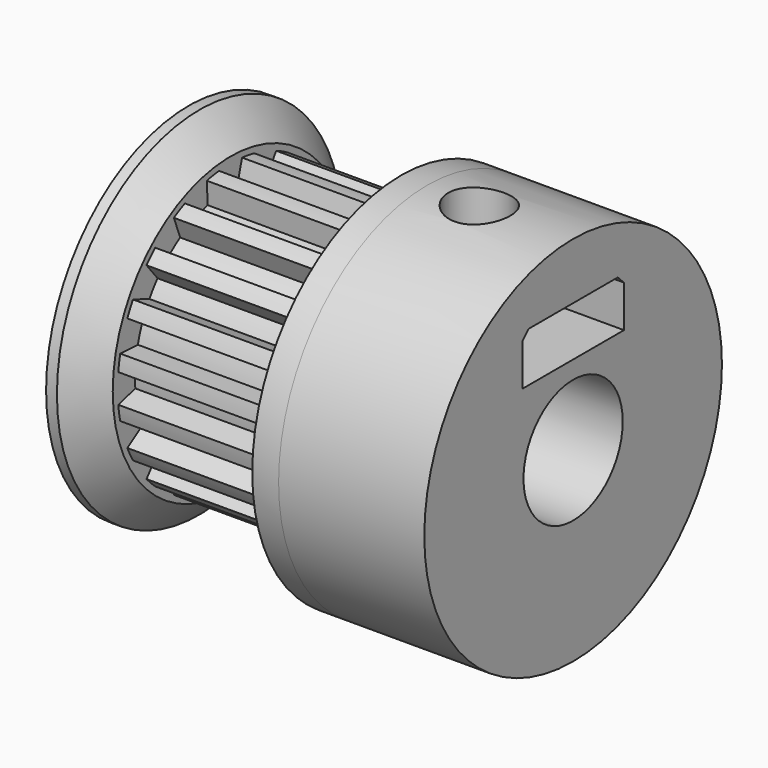
from build123d import *

# Parameters (mm, degrees)
F3_DEPTH      = 182.88
F3_DEPTH_BACK = 182.88
F4_W          = 43.18
F4_H          = 292.1
F4_H_2        = 12.7
F6_DEPTH      = 365.761
F9_DEPTH      = 304.801
F7_W          = 208.28
F7_H          = 81.28
F10_DEPTH     = 279.4
F11_SIZE      = 12.7
F12_SCALE     = 0.0393700787
F13_DEPTH     = 1
F14_SIZE      = 2


with BuildPart() as f1:
    # F0 (on Top) → F1 (revolve)
    with BuildSketch(Plane.XY):
        Polygon((182.88, 231.14), (-182.88, 231.14), (-182.88, 101.6), (421.64, 101.6), (421.64, 304.8), (182.88, 304.8), align=None)
    revolve(axis=Axis((286.554813385, 0, 0), (1, 0, 0)))

    # F2 (on Right) → F3 (cut, two sides)
    with BuildSketch(Plane.YZ) as f3_sk:
        with BuildLine():
            Line((-46.7577635634, 189.9085252076), (-48.6472827621, 225.9626993109))
            ThreePointArc((-48.6472827621, 225.9626993109), (-71.4261880798, 219.8272031765), (-93.4610637385, 211.401819209))
            Line((-93.4610637385, 211.401819209), (-73.7976050599, 181.1227481224))
            ThreePointArc((-73.7976050599, 181.1227481224), (-60.4375437599, 186.007633457), (-46.7577635634, 189.9085252076))
        make_face()
        with BuildLine():
            Line((14.2156859414, 195.0626839588), (23.559998911, 229.9361347229))
            ThreePointArc((23.559998911, 229.9361347229), (0, 231.14), (-23.559998911, 229.9361347229))
            Line((-23.559998911, 229.9361347229), (-14.2156859414, 195.0626839588))
            ThreePointArc((-14.2156859414, 195.0626839588), (0, 195.58), (14.2156859414, 195.0626839588))
        make_face()
        with BuildLine():
            ThreePointArc((93.4610637385, 211.401819209), (71.4261880798, 219.8272031765), (48.6472827621, 225.9626993109))
            Line((48.6472827621, 225.9626993109), (46.7577635634, 189.9085252076))
            ThreePointArc((46.7577635634, 189.9085252076), (60.4375437599, 186.007633457), (73.7976050599, 181.1227481224))
            Line((73.7976050599, 181.1227481224), (93.4610637385, 211.401819209))
        make_face()
        with BuildLine():
            ThreePointArc((154.2135084657, 172.1740207078), (135.8606832149, 186.9961880798), (116.0926294528, 199.8704605156))
            Line((116.0926294528, 199.8704605156), (103.1542373903, 166.1647968387))
            ThreePointArc((103.1542373903, 166.1647968387), (114.9590396434, 158.2275437599), (126.1557004169, 149.4532557435))
            Line((126.1557004169, 149.4532557435), (154.2135084657, 172.1740207078))
        make_face()
        with BuildLine():
            ThreePointArc((199.8704605156, 116.0926294528), (186.9961880798, 135.8606832149), (172.1740207078, 154.2135084657))
            Line((172.1740207078, 154.2135084657), (149.4532557435, 126.1557004169))
            ThreePointArc((149.4532557435, 126.1557004169), (158.2275437599, 114.9590396434), (166.1647968387, 103.1542373903))
            Line((166.1647968387, 103.1542373903), (199.8704605156, 116.0926294528))
        make_face()
        with BuildLine():
            ThreePointArc((225.9626993109, 48.6472827621), (219.8272031765, 71.4261880798), (211.401819209, 93.4610637385))
            Line((211.401819209, 93.4610637385), (181.1227481224, 73.7976050599))
            ThreePointArc((181.1227481224, 73.7976050599), (186.007633457, 60.4375437599), (189.9085252076, 46.7577635634))
            Line((189.9085252076, 46.7577635634), (225.9626993109, 48.6472827621))
        make_face()
        with BuildLine():
            ThreePointArc((231.14, 0), (230.8388374818, 11.7953681618), (229.9361347229, 23.559998911))
            Line((229.9361347229, 23.559998911), (195.0626839588, 14.2156859414))
            ThreePointArc((195.0626839588, 14.2156859414), (195.4506282014, 7.1125477621), (195.58, 0))
            ThreePointArc((195.58, 0), (195.4506282014, -7.1125477621), (195.0626839588, -14.2156859414))
            Line((195.0626839588, -14.2156859414), (229.9361347229, -23.559998911))
            ThreePointArc((229.9361347229, -23.559998911), (230.8388374818, -11.7953681618), (231.14, 0))
        make_face()
        with BuildLine():
            ThreePointArc((211.401819209, -93.4610637385), (219.8272031765, -71.4261880798), (225.9626993109, -48.6472827621))
            Line((225.9626993109, -48.6472827621), (189.9085252076, -46.7577635635))
            ThreePointArc((189.9085252076, -46.7577635635), (186.007633457, -60.4375437599), (181.1227481224, -73.7976050599))
            Line((181.1227481224, -73.7976050599), (211.401819209, -93.4610637385))
        make_face()
        with BuildLine():
            ThreePointArc((172.1740207078, -154.2135084657), (186.9961880798, -135.8606832149), (199.8704605156, -116.0926294528))
            Line((199.8704605156, -116.0926294528), (166.1647968387, -103.1542373903))
            ThreePointArc((166.1647968387, -103.1542373903), (158.2275437599, -114.9590396434), (149.4532557435, -126.1557004169))
            Line((149.4532557435, -126.1557004169), (172.1740207078, -154.2135084657))
        make_face()
        with BuildLine():
            ThreePointArc((116.0926294528, -199.8704605156), (135.8606832149, -186.9961880798), (154.2135084657, -172.1740207078))
            Line((154.2135084657, -172.1740207078), (126.1557004169, -149.4532557435))
            ThreePointArc((126.1557004169, -149.4532557435), (114.9590396434, -158.2275437599), (103.1542373903, -166.1647968387))
            Line((103.1542373903, -166.1647968387), (116.0926294528, -199.8704605156))
        make_face()
        with BuildLine():
            ThreePointArc((48.6472827621, -225.9626993109), (71.4261880798, -219.8272031765), (93.4610637385, -211.401819209))
            Line((93.4610637385, -211.401819209), (73.7976050599, -181.1227481224))
            ThreePointArc((73.7976050599, -181.1227481224), (60.4375437599, -186.007633457), (46.7577635634, -189.9085252076))
            Line((46.7577635634, -189.9085252076), (48.6472827621, -225.9626993109))
        make_face()
        with BuildLine():
            ThreePointArc((-23.559998911, -229.9361347229), (0, -231.14), (23.559998911, -229.9361347229))
            Line((23.559998911, -229.9361347229), (14.2156859414, -195.0626839588))
            ThreePointArc((14.2156859414, -195.0626839588), (0, -195.58), (-14.2156859414, -195.0626839588))
            Line((-14.2156859414, -195.0626839588), (-23.559998911, -229.9361347229))
        make_face()
        with BuildLine():
            Line((-73.7976050599, -181.1227481224), (-93.4610637385, -211.401819209))
            ThreePointArc((-93.4610637385, -211.401819209), (-71.4261880798, -219.8272031765), (-48.6472827621, -225.9626993109))
            Line((-48.6472827621, -225.9626993109), (-46.7577635635, -189.9085252076))
            ThreePointArc((-46.7577635635, -189.9085252076), (-60.4375437599, -186.007633457), (-73.7976050599, -181.1227481224))
        make_face()
        with BuildLine():
            Line((-126.1557004169, -149.4532557435), (-154.2135084657, -172.1740207078))
            ThreePointArc((-154.2135084657, -172.1740207078), (-135.8606832149, -186.9961880798), (-116.0926294528, -199.8704605156))
            Line((-116.0926294528, -199.8704605156), (-103.1542373903, -166.1647968387))
            ThreePointArc((-103.1542373903, -166.1647968387), (-114.9590396434, -158.2275437599), (-126.1557004169, -149.4532557435))
        make_face()
        with BuildLine():
            Line((-166.1647968387, -103.1542373903), (-199.8704605156, -116.0926294528))
            ThreePointArc((-199.8704605156, -116.0926294528), (-186.9961880798, -135.8606832149), (-172.1740207078, -154.2135084657))
            Line((-172.1740207078, -154.2135084657), (-149.4532557435, -126.1557004169))
            ThreePointArc((-149.4532557435, -126.1557004169), (-158.2275437599, -114.9590396434), (-166.1647968387, -103.1542373903))
        make_face()
        with BuildLine():
            Line((-189.9085252076, -46.7577635634), (-225.9626993109, -48.6472827621))
            ThreePointArc((-225.9626993109, -48.6472827621), (-219.8272031765, -71.4261880798), (-211.401819209, -93.4610637385))
            Line((-211.401819209, -93.4610637385), (-181.1227481224, -73.7976050599))
            ThreePointArc((-181.1227481224, -73.7976050599), (-186.007633457, -60.4375437599), (-189.9085252076, -46.7577635634))
        make_face()
        with BuildLine():
            Line((-195.0626839588, 14.2156859414), (-229.9361347229, 23.559998911))
            ThreePointArc((-229.9361347229, 23.559998911), (-231.14, 0), (-229.9361347229, -23.559998911))
            Line((-229.9361347229, -23.559998911), (-195.0626839588, -14.2156859414))
            ThreePointArc((-195.0626839588, -14.2156859414), (-195.58, 0), (-195.0626839588, 14.2156859414))
        make_face()
        with BuildLine():
            Line((-181.1227481224, 73.7976050599), (-211.401819209, 93.4610637385))
            ThreePointArc((-211.401819209, 93.4610637385), (-219.8272031765, 71.4261880798), (-225.9626993109, 48.6472827621))
            Line((-225.9626993109, 48.6472827621), (-189.9085252076, 46.7577635634))
            ThreePointArc((-189.9085252076, 46.7577635635), (-186.007633457, 60.4375437599), (-181.1227481224, 73.7976050599))
        make_face()
        with BuildLine():
            Line((-149.4532557435, 126.1557004169), (-172.1740207078, 154.2135084657))
            ThreePointArc((-172.1740207078, 154.2135084657), (-186.9961880798, 135.8606832149), (-199.8704605156, 116.0926294528))
            Line((-199.8704605156, 116.0926294528), (-166.1647968387, 103.1542373903))
            ThreePointArc((-166.1647968387, 103.1542373903), (-158.2275437599, 114.9590396434), (-149.4532557435, 126.1557004169))
        make_face()
        with BuildLine():
            Line((-103.1542373903, 166.1647968387), (-116.0926294528, 199.8704605156))
            ThreePointArc((-116.0926294528, 199.8704605156), (-135.8606832149, 186.9961880798), (-154.2135084657, 172.1740207078))
            Line((-154.2135084657, 172.1740207078), (-126.1557004169, 149.4532557435))
            ThreePointArc((-126.1557004169, 149.4532557435), (-114.9590396434, 158.2275437599), (-103.1542373903, 166.1647968387))
        make_face()
    extrude(amount=-F3_DEPTH, mode=Mode.SUBTRACT)
    extrude(f3_sk.sketch, amount=F3_DEPTH_BACK, mode=Mode.SUBTRACT)

    # F4 (on Top) → F5 (revolve)
    with BuildSketch(Plane.XY):
        Polygon((-139.7, 0), (-182.88, 0), (-182.88, -14.2156859414), (-182.88, -292.1), (-139.7, -292.1), align=None)
        with Locations((161.29, -146.05)):
            Rectangle(F4_W, F4_H)
        with Locations((161.29, -298.45)):
            Rectangle(F4_W, F4_H_2)
    revolve(axis=Axis((-161.29, 0, 0), (-1, 0, 0)))

    # F6 (cut, through all): a face of the model
    f6_faces = [f1.faces().sort_by_distance(p)[0] for p in [
        (182.88, 0, 0),
    ]]
    extrude(f6_faces, amount=-F6_DEPTH, mode=Mode.SUBTRACT)

    # F8 (on Top) → F9 (cut, through all)
    with BuildSketch(Plane.XY):
        with BuildLine():
            Line((217.17, 0), (318.77, 0))
            ThreePointArc((318.77, 0), (267.97, 50.8), (217.17, 0))
        make_face()
        with BuildLine():
            ThreePointArc((217.17, 0), (267.97, -50.8), (318.77, 0))
            Line((318.77, 0), (217.17, 0))
        make_face()
    extrude(amount=F9_DEPTH, mode=Mode.SUBTRACT)

    # F7 (on face) → F10 (cut)
    with BuildSketch(Plane.YZ.offset(421.64)):
        with Locations((0, 171.45)):
            Rectangle(F7_W, F7_H)
    extrude(amount=-F10_DEPTH, mode=Mode.SUBTRACT)

    # F11
    f11_edges = [f1.edges().sort_by_distance(p)[0] for p in [
        (281.94, -104.14, 212.09),
        (281.94, 104.14, 212.09),
    ]]
    chamfer(f11_edges, length=F11_SIZE)


with BuildPart() as f1_1:
    # F12: moved
    add(f1.part.scale(F12_SCALE))

    # F13 (add): a face of the model
    f13_faces = [f1_1.faces().sort_by_distance(p)[0] for p in [
        (-7.2, 11.1747308807, 0),
    ]]
    extrude(f13_faces, amount=F13_DEPTH)

    # F14
    f14_edges = [f1_1.edges().sort_by_distance(p)[0] for p in [
        (-5.5, 11.5, 0),
    ]]
    chamfer(f14_edges, length=F14_SIZE)


solid = f1_1.part
